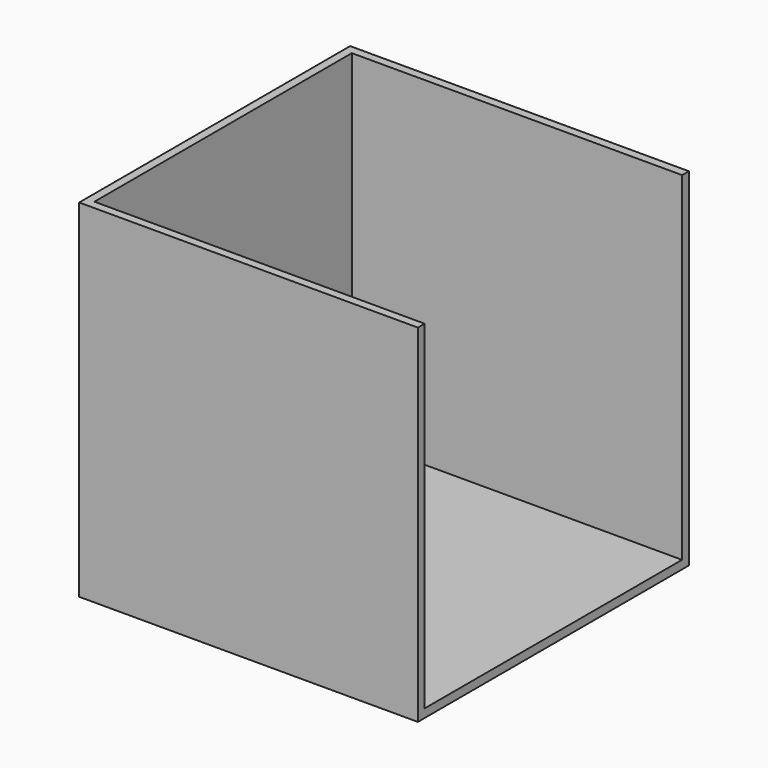
from build123d import *

# Parameters (mm, degrees)
F0_W     = 200
F0_H     = 200
F5_DEPTH = 5
F1_W     = 200
F1_H     = 200
F6_DEPTH = 5
F2_W     = 200
F2_H     = 200
F3_DEPTH = 5
F4_W     = 190
F4_H     = 200
F7_DEPTH = 5


with BuildPart() as f5:
    # F0 (on Top) → F5 (new body)
    with BuildSketch(Plane.XY):
        Rectangle(F0_W, F0_H)
    extrude(amount=-F5_DEPTH)

    # F1 (on face) → F6 (join)
    with BuildSketch(Plane.XZ.offset(100)):
        with Locations((0, 100)):
            Rectangle(F1_W, F1_H)
    extrude(amount=-F6_DEPTH)

    # F2 (on face) → F3 (join)
    with BuildSketch(Plane(origin=(0, 100, 0), x_dir=(-1, 0, 0), z_dir=(0, 1, 0))):
        with Locations((0, 100)):
            Rectangle(F2_W, F2_H)
    extrude(amount=-F3_DEPTH)

    # F4 (on face) → F7 (join)
    with BuildSketch(Plane(origin=(-100, 0, 0), x_dir=(0, -1, 0), z_dir=(-1, 0, 0))):
        with Locations((0, 100)):
            Rectangle(F4_W, F4_H)
    extrude(amount=-F7_DEPTH)


solid = f5.part
